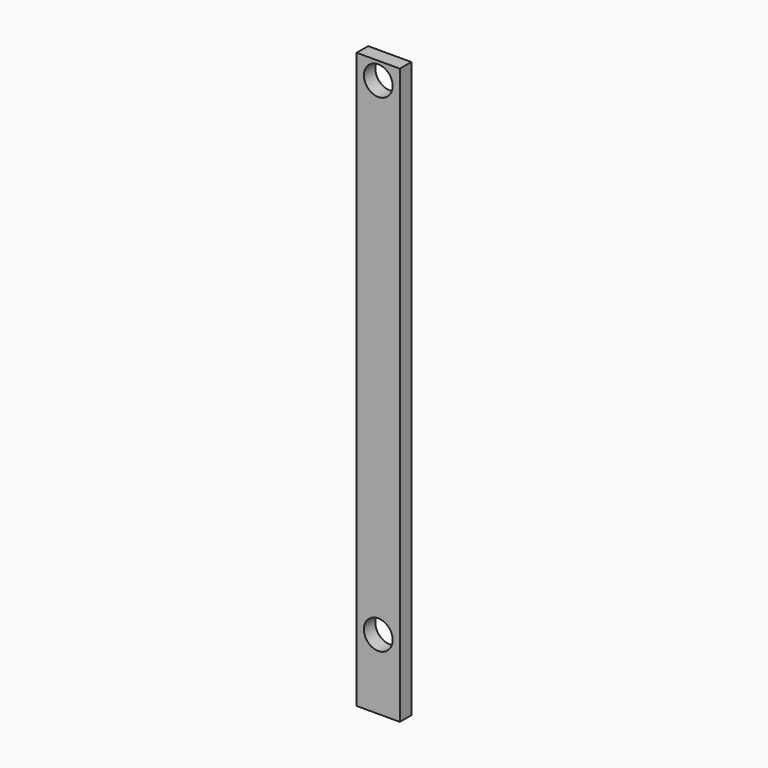
from build123d import *

# Parameters (mm, degrees)
F0_W     = 15
F0_H     = 200
F0_R     = 5
F1_DEPTH = 5
F2_R     = 5
F3_DEPTH = 5


with BuildPart() as f1:
    # F0 (on Front) → F1 (new body)
    with BuildSketch(Plane.XZ):
        with Locations((7.5, 100)):
            Rectangle(F0_W, F0_H)
        with Locations((7.5, 24.281727)):
            Circle(F0_R, mode=Mode.SUBTRACT)
    extrude(amount=F1_DEPTH)

    # F2 (on face) → F3 (cut, through all)
    with BuildSketch(Plane.XZ.offset(5)):
        with Locations((7.5, 193.888739)):
            Circle(F2_R)
    extrude(amount=-F3_DEPTH, mode=Mode.SUBTRACT)


solid = f1.part
